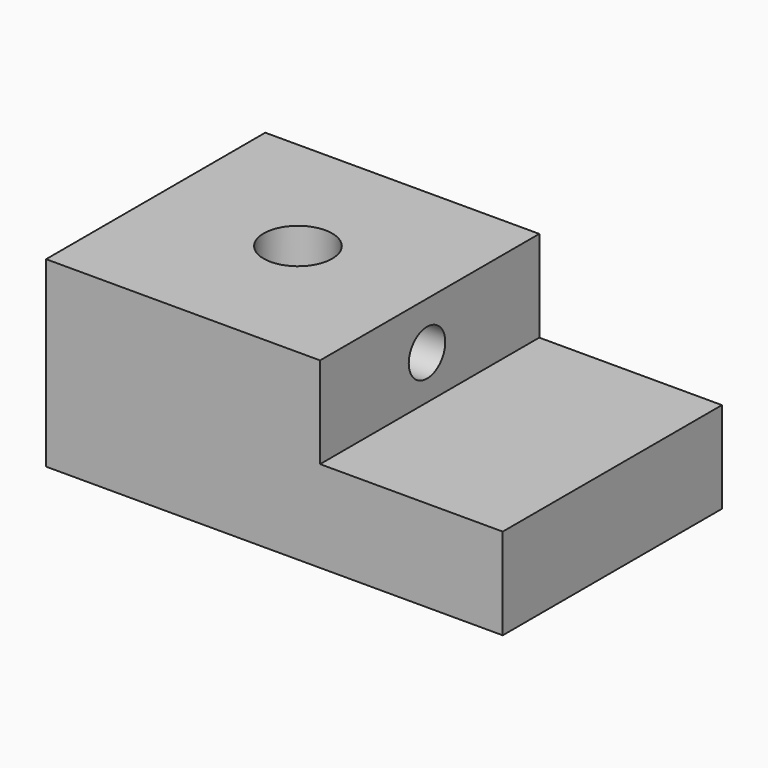
from build123d import *

# Parameters (mm, degrees)
F1_DEPTH = 76.2
F2_DEPTH = 25.4
F4_D     = 19.05
F6_D     = 12.7


with BuildPart() as f1:
    # F0 (on Front) → F1 (new body)
    with BuildSketch(Plane.XZ):
        Polygon((0, 50.8), (0, 0), (127, 0), (127, 25.4), (76.2, 25.4), (76.2, 50.8), align=None)
    extrude(amount=F1_DEPTH)

    # F0 (on Front) → F2 (join)
    with BuildSketch(Plane.XZ):
        Polygon((0, 50.8), (0, 0), (127, 0), (127, 25.4), (76.2, 25.4), (76.2, 50.8), align=None)
    extrude(amount=F2_DEPTH)

    # F4 (through all)
    with Locations(Plane.XY.offset(50.8)):
        with Locations((38.853236, -37.206624)):
            Hole(F4_D / 2)

    # F6 (through all)
    with Locations(Plane.YZ.offset(76.2)):
        with Locations((-39.024234, 37.578892)):
            Hole(F6_D / 2)


solid = f1.part
